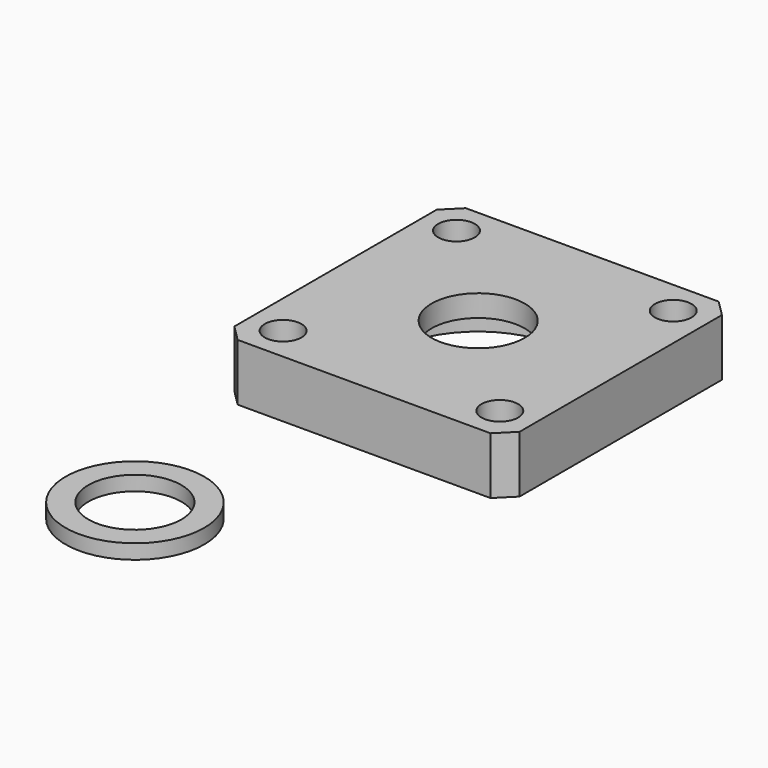
from build123d import *

# Parameters (mm, degrees)
F0_W     = 39.6875
F0_H     = 39.6875
F0_R     = 12.7
F0_R_2   = 6.477
F1_DEPTH = 7.9375
F2_R     = 12.7
F2_R_2   = 6.477
F3_DEPTH = 4.9022
F4_D     = 5.1054
F5_SIZE  = 2.2454031117
F0_R_3   = 9.652
F6_DEPTH = 2.032


with BuildPart() as f1:
    # F0 (on Top) → F1 (new body)
    with BuildSketch(Plane.XY):
        Rectangle(F0_W, F0_H)
        Circle(F0_R, mode=Mode.SUBTRACT)
        Circle(F0_R)
        Circle(F0_R_2, mode=Mode.SUBTRACT)
    extrude(amount=-F1_DEPTH)

    # F2 (on face) → F3 (cut)
    with BuildSketch(Plane(origin=(0, 0, -7.9375), x_dir=(1, 0, 0), z_dir=(0, 0, -1))):
        Circle(F2_R)
        Circle(F2_R_2, mode=Mode.SUBTRACT)
    extrude(amount=-F3_DEPTH, mode=Mode.SUBTRACT)

    # F4 (through all)
    with Locations(Plane.XY):
        with Locations((-15.08125, -15.08125), (15.08125, -15.08125), (15.08125, 15.08125), (-15.08125, 15.08125)):
            Hole(F4_D / 2)

    # F5
    f5_edges = [f1.edges().sort_by_distance(p)[0] for p in [
        (-19.84375, -19.84375, -3.96875),
        (-19.84375, 19.84375, -3.96875),
        (19.84375, 19.84375, -3.96875),
        (19.84375, -19.84375, -3.96875),
    ]]
    chamfer(f5_edges, length=F5_SIZE)


with BuildPart() as f6:
    # F0 (on Top) → F6 (new body)
    with BuildSketch(Plane.XY):
        with Locations((0, -59.708956629)):
            Circle(F0_R_3)
        with Locations((0, -59.708956629)):
            Circle(F0_R_2, mode=Mode.SUBTRACT)
    extrude(amount=F6_DEPTH)


solid = Compound([f1.part, f6.part])
